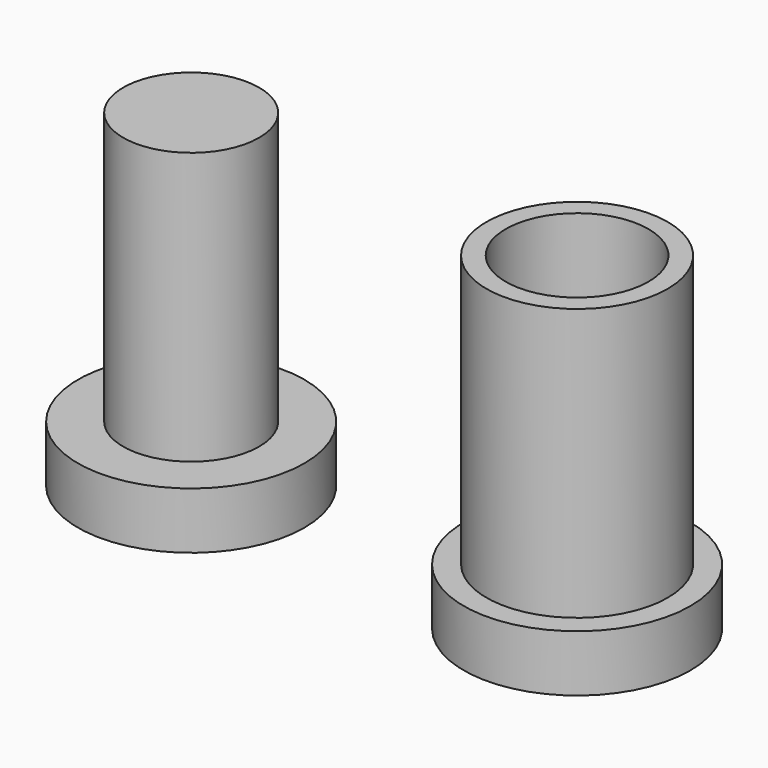
from build123d import *

# Parameters (mm, degrees)
F0_R     = 6.35
F1_DEPTH = 3.175
F2_R     = 3.81
F3_DEPTH = 15.24
F4_R     = 6.35
F5_DEPTH = 3.175
F6_R     = 5.08
F6_R_2   = 4.0005
F7_DEPTH = 15.24


with BuildPart() as f1:
    # F0 (on Top) → F1 (new body)
    with BuildSketch(Plane.XY):
        Circle(F0_R)
    extrude(amount=F1_DEPTH)

    # F2 (on face) → F3 (join)
    with BuildSketch(Plane.XY.offset(3.175)):
        Circle(F2_R)
    extrude(amount=F3_DEPTH)


with BuildPart() as f5:
    # F4 (on Top) → F5 (new body)
    with BuildSketch(Plane.XY):
        with Locations((21.640942, -0.014384)):
            Circle(F4_R)
    extrude(amount=F5_DEPTH)

    # F6 (on face) → F7 (join)
    with BuildSketch(Plane.XY.offset(3.175)):
        with Locations((21.640942, -0.014384)):
            Circle(F6_R)
        with Locations((21.640942, -0.014384)):
            Circle(F6_R_2, mode=Mode.SUBTRACT)
    extrude(amount=F7_DEPTH)


solid = Compound([f1.part, f5.part])
